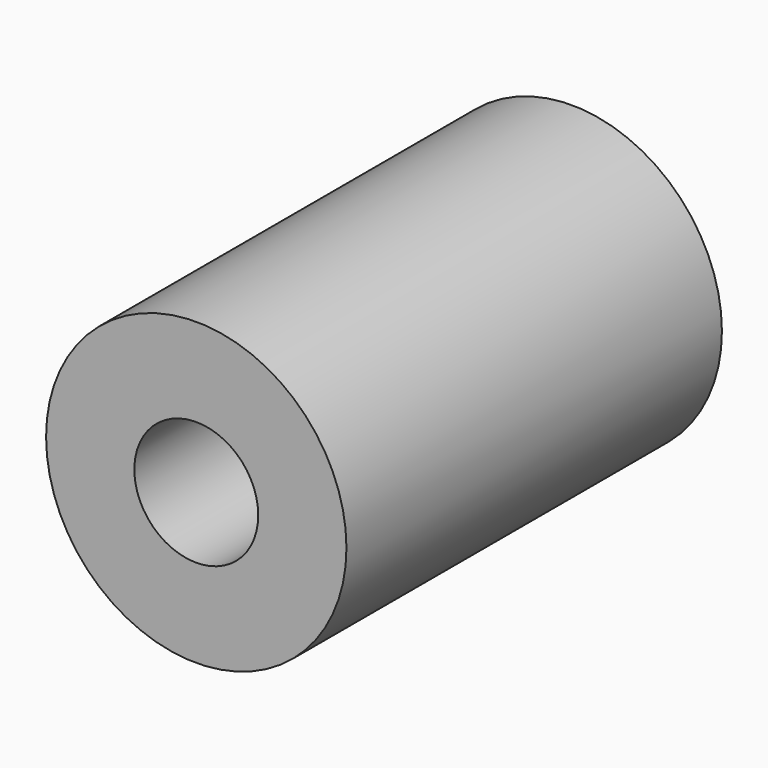
from build123d import *

# Parameters (mm, degrees)
CYLINDER047_R     = 3.3
CYLINDER047_DEPTH = 25
CYLINDER045_R     = 8
CYLINDER045_DEPTH = 25


with BuildPart() as zylinder047:
    # Cylinder047 → Cylinder047 (new body)
    with BuildSketch(Plane(origin=(250, 0, 40), x_dir=(1, 0, 0), z_dir=(0, -1, 0))):
        Circle(CYLINDER047_R)
    extrude(amount=CYLINDER047_DEPTH)


with BuildPart() as spacer02:
    # Cylinder045 → Cylinder045 (new body)
    with BuildSketch(Plane(origin=(250, 0, 40), x_dir=(1, 0, 0), z_dir=(0, -1, 0))):
        Circle(CYLINDER045_R)
    extrude(amount=CYLINDER045_DEPTH)

    # Cut007: cut Zylinder047
    add(zylinder047.part, mode=Mode.SUBTRACT)


solid = spacer02.part
